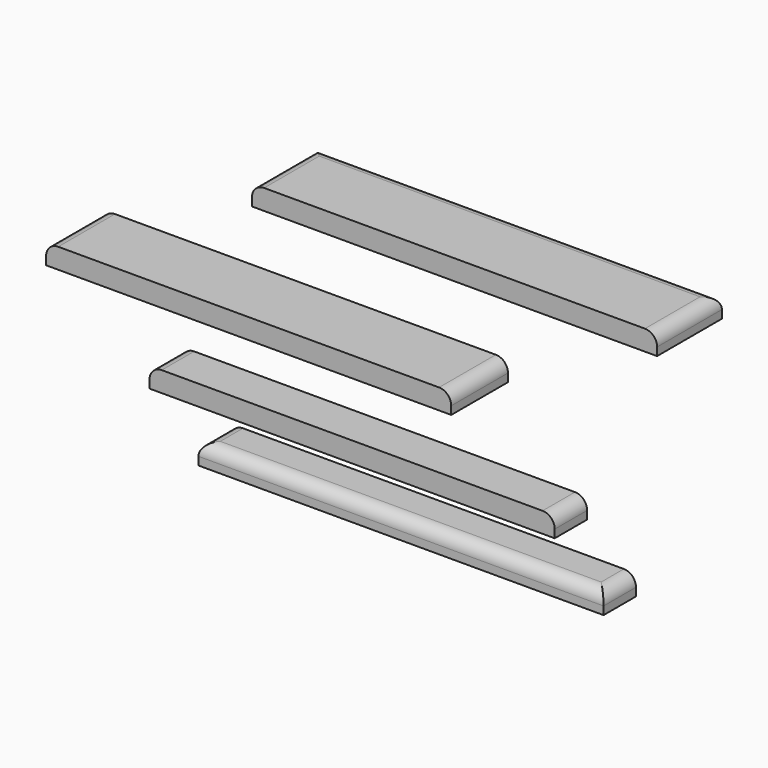
from build123d import *

# Parameters (mm, degrees)
F0_W     = 400
F0_H     = 40
F4_DEPTH = 20
F1_W     = 400
F1_H     = 40
F5_DEPTH = 20
F2_W     = 400
F2_H     = 70
F6_DEPTH = 20
F3_W     = 400
F3_H     = 80
F7_DEPTH = 20
F8_R     = 12
F8_2_R   = 12
F8_3_R   = 12
F8_4_R   = 12


with BuildPart() as f4:
    # F0 (on Top) → F4 (new body)
    with BuildSketch(Plane.XY):
        with Locations((-56.467072, -113.173482)):
            Rectangle(F0_W, F0_H)
    extrude(amount=F4_DEPTH)

    # F8#4
    f8_4_edges = [f4.edges().sort_by_distance(p)[0] for p in [
        (-256.467072, -113.173482, 20),
        (143.532928, -113.173482, 20),
        (-56.467072, -133.173482, 20),
    ]]
    fillet(f8_4_edges, radius=F8_4_R)


with BuildPart() as f5:
    # F1 (on Top) → F5 (new body)
    with BuildSketch(Plane.XY):
        with Locations((-166.04317, -36.497839)):
            Rectangle(F1_W, F1_H)
    extrude(amount=F5_DEPTH)

    # F8#3
    f8_3_edges = [f5.edges().sort_by_distance(p)[0] for p in [
        (-366.04317, -36.497839, 20),
        (33.95683, -36.497839, 20),
    ]]
    fillet(f8_3_edges, radius=F8_3_R)


with BuildPart() as f6:
    # F2 (on Top) → F6 (new body)
    with BuildSketch(Plane.XY):
        with Locations((-356.989252, 89.480467)):
            Rectangle(F2_W, F2_H)
    extrude(amount=F6_DEPTH)

    # F8#2
    f8_2_edges = [f6.edges().sort_by_distance(p)[0] for p in [
        (-556.989252, 89.480467, 20),
        (-156.989252, 89.480467, 20),
    ]]
    fillet(f8_2_edges, radius=F8_2_R)


with BuildPart() as f7:
    # F3 (on Top) → F7 (new body)
    with BuildSketch(Plane.XY):
        with Locations((-294.404037, 270.293728)):
            Rectangle(F3_W, F3_H)
    extrude(amount=F7_DEPTH)

    # F8
    f8_edges = [f7.edges().sort_by_distance(p)[0] for p in [
        (-294.404037, 310.293728, 20),
        (-94.404037, 270.293728, 20),
        (-494.404037, 270.293728, 20),
    ]]
    fillet(f8_edges, radius=F8_R)


solid = Compound([f4.part, f5.part, f6.part, f7.part])
